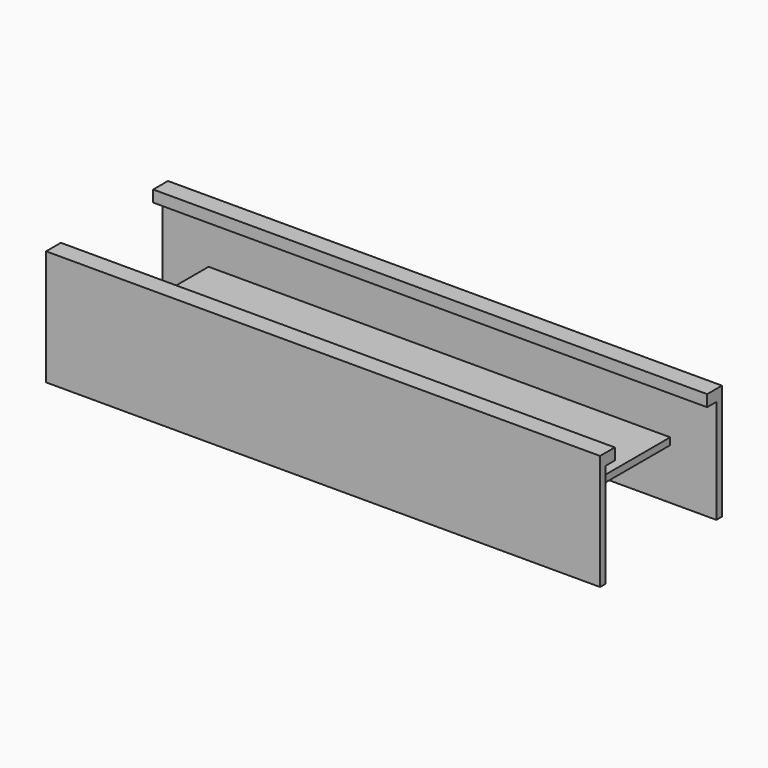
from build123d import *

# Parameters (mm, degrees)
F0_W     = 1200
F0_H     = 250
F1_DEPTH = 15
F2_W     = 1200
F2_H     = 25
F3_DEPTH = 25
F4_W     = 1000
F4_H     = 15
F5_DEPTH = 150


with BuildPart() as f1:
    # F0 (on Front) → F1 (new body)
    with BuildSketch(Plane.XZ):
        Rectangle(F0_W, F0_H)
    extrude(amount=-F1_DEPTH)

    # F2 (on face) → F3 (join)
    with BuildSketch(Plane(origin=(0, 15, 0), x_dir=(-1, 0, 0), z_dir=(0, 1, 0))):
        with Locations((0, 112.5)):
            Rectangle(F2_W, F2_H)
    extrude(amount=F3_DEPTH)

    # F4 (on face) → F5 (join)
    with BuildSketch(Plane(origin=(0, 15, 0), x_dir=(-1, 0, 0), z_dir=(0, 1, 0))):
        with Locations((0, -7.5)):
            Rectangle(F4_W, F4_H)
    extrude(amount=F5_DEPTH)

    # F6: F1 across face


with BuildPart() as f1_1:
    add(f1.part)
    add(f1.part.mirror(Plane(origin=(0, 165, -7.5), x_dir=(-1, 0, 0), z_dir=(0, 1, 0))))


solid = f1_1.part
